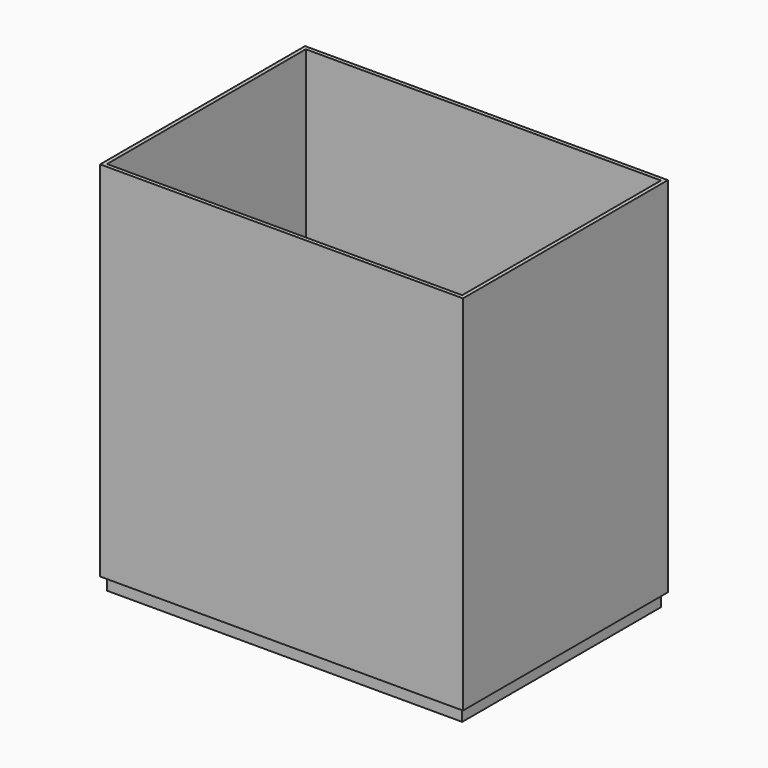
from build123d import *

# Parameters (mm, degrees)
F0_W     = 166.4
F0_H     = 116.4
F1_DEPTH = 170
F0_W_2   = 170
F0_H_2   = 120
F2_DEPTH = 170
F4_DEPTH = 1
F5_DEPTH = 5
F6_DEPTH = 170


with BuildPart() as f1:
    # F0 (on Top) → F1 (new body)
    with BuildSketch(Plane.XY):
        with Locations((6.7789069265, 121.5492137671)):
            Rectangle(F0_W, F0_H)
    extrude(amount=F1_DEPTH)


with BuildPart() as f2:
    # F0 (on Top) → F2 (new body)
    with BuildSketch(Plane.XY):
        with Locations((6.7789069265, 121.5492137671)):
            Rectangle(F0_W_2, F0_H_2)
        with Locations((6.7789069265, 121.5492137671)):
            Rectangle(F0_W, F0_H, mode=Mode.SUBTRACT)
    extrude(amount=F2_DEPTH)

    # F3: cut F1
    add(f1.part, mode=Mode.SUBTRACT)


with BuildPart() as f4:
    # F0 (on Top) → F4 (new body, symmetric)
    with BuildSketch(Plane.XY):
        with Locations((8.5789069265, -58.2)):
            Rectangle(F0_W, F0_H)
    extrude(amount=F4_DEPTH, both=True)


with BuildPart() as f5:
    # F5 (new, symmetric): a face of the model
    f5_faces = [f4.part.faces().sort_by_distance(p)[0] for p in [
        (8.5789069265, -58.2, -1),
    ]]
    extrude(f5_faces, amount=F5_DEPTH, both=True)


with BuildPart() as f4_1:
    add(f4.part)

    add(f5.part)  # F6 merges F5
    # F0 (on Top) → F6 (join)
    with BuildSketch(Plane.XY):
        with Locations((8.5789069265, -58.2)):
            Rectangle(F0_W_2, F0_H_2)
        with Locations((8.5789069265, -58.2)):
            Rectangle(F0_W, F0_H, mode=Mode.SUBTRACT)
    extrude(amount=F6_DEPTH)


solid = f4_1.part
